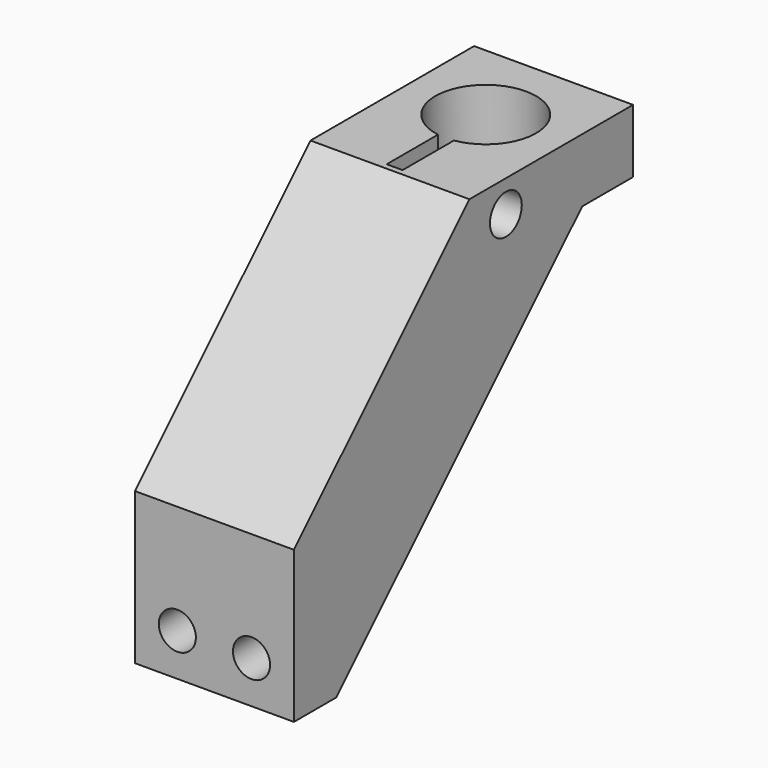
from build123d import *

# Parameters (mm, degrees)
PAD_DEPTH       = 15
SKETCH001_R     = 4.725
POCKET_DEPTH    = 28.285271
SKETCH002_W     = 13.497765
SKETCH002_H     = 2
POCKET001_DEPTH = 15.001
SKETCH007_W     = 9.919765
SKETCH007_H     = 5.5
SKETCH007_W_2   = 9.427402
POCKET002_DEPTH = 34
SKETCH008_W     = 17.002388
SKETCH008_H     = 12
POCKET003_DEPTH = 13
SKETCH009_R     = 4.75
POCKET004_DEPTH = 35.001
SKETCH010_W     = 8.09575
SKETCH010_H     = 1.5
POCKET005_DEPTH = 35.001
SKETCH011_R     = 1.4
POCKET006_DEPTH = 15.001
SKETCH012_R     = 1.4
POCKET007_DEPTH = 8
SKETCH013_R     = 1.75
POCKET008_DEPTH = 6.001
SKETCH014_R     = 1.875
POCKET009_DEPTH = 8


with BuildPart() as part:
    # Sketch → Pad (new body)
    with BuildSketch(Plane.YZ):
        Polygon((20.701614, 0), (40, 0), (40, -6), (34, -6), (5, -35), (0, -35), (0, -20.701614), align=None)
    extrude(amount=PAD_DEPTH)

    # Sketch001 (on Face4 of Pad) → Pocket (cut, through all)
    with BuildSketch(Plane(origin=(0, 20, -20), x_dir=(0, 0.707107, 0.707107), z_dir=(0, 0.707107, -0.707107))):
        with Locations((-32, 7.5)):
            Circle(SKETCH001_R)
    extrude(amount=-POCKET_DEPTH, mode=Mode.SUBTRACT)

    # Sketch002 (on Face8 of Pocket) → Pocket001 (cut, through all)
    with BuildSketch(Plane(origin=(0, 0, 0), x_dir=(0, 1, 0), z_dir=(-1, 0, 0))):
        with Locations((-21.822522, 7.5)):
            Rectangle(SKETCH002_W, SKETCH002_H)
    extrude(amount=-POCKET001_DEPTH, mode=Mode.SUBTRACT)

    # Sketch007 (on Face2 of Pocket001) → Pocket002 (cut)
    with BuildSketch(Plane.ZX.offset(40)):
        with Locations((-32.959882, 4)):
            Rectangle(SKETCH007_W, SKETCH007_H)
        with Locations((-32.713701, 11)):
            Rectangle(SKETCH007_W_2, SKETCH007_H)
    extrude(amount=-POCKET002_DEPTH, mode=Mode.SUBTRACT)

    # Sketch008 (on Face3 of Pocket002) → Pocket003 (cut)
    with BuildSketch(Plane.ZX.offset(40)):
        with Locations((-14.501194, 7.5)):
            Rectangle(SKETCH008_W, SKETCH008_H)
    extrude(amount=-POCKET003_DEPTH, mode=Mode.SUBTRACT)

    # Sketch009 (on Face1 of Pocket003) → Pocket004 (cut, through all)
    with BuildSketch(Plane(origin=(0, 0, 0), x_dir=(0, -1, 0), z_dir=(0, 0, 1))):
        with Locations((-32, 7.5)):
            Circle(SKETCH009_R)
    extrude(amount=-POCKET004_DEPTH, mode=Mode.SUBTRACT)

    # Sketch010 (on Face1 of Pocket004) → Pocket005 (cut, through all)
    with BuildSketch(Plane(origin=(0, 0, 0), x_dir=(0, -1, 0), z_dir=(0, 0, 1))):
        with Locations((-25.307632, 7.5)):
            Rectangle(SKETCH010_W, SKETCH010_H)
    extrude(amount=-POCKET005_DEPTH, mode=Mode.SUBTRACT)

    # Sketch011 (on Face3 of Pocket005) → Pocket006 (cut, through all)
    with BuildSketch(Plane(origin=(0, 0, 0), x_dir=(0, 1, 0), z_dir=(-1, 0, 0))):
        with Locations((25, 3)):
            Circle(SKETCH011_R)
    extrude(amount=-POCKET006_DEPTH, mode=Mode.SUBTRACT)

    # Sketch012 (on Face3 of Pocket006) → Pocket007 (cut)
    with BuildSketch(Plane(origin=(0, 0, 0), x_dir=(0, 1, 0), z_dir=(-1, 0, 0))):
        with Locations((25, 3)):
            Circle(SKETCH012_R)
    extrude(amount=-POCKET007_DEPTH, mode=Mode.SUBTRACT)

    # Sketch013 (on Face31 of Pocket007) → Pocket008 (cut, through all)
    with BuildSketch(Plane.ZX.offset(6)):
        with Locations((-31, 11)):
            Circle(SKETCH013_R)
        with Locations((-31, 4)):
            Circle(SKETCH013_R)
    extrude(amount=-POCKET008_DEPTH, mode=Mode.SUBTRACT)

    # Sketch014 (on Face4 of Pocket008) → Pocket009 (cut)
    with BuildSketch(Plane.YZ.offset(15)):
        with Locations((25, -3)):
            Circle(SKETCH014_R)
    extrude(amount=-POCKET009_DEPTH, mode=Mode.SUBTRACT)


solid = part.part
